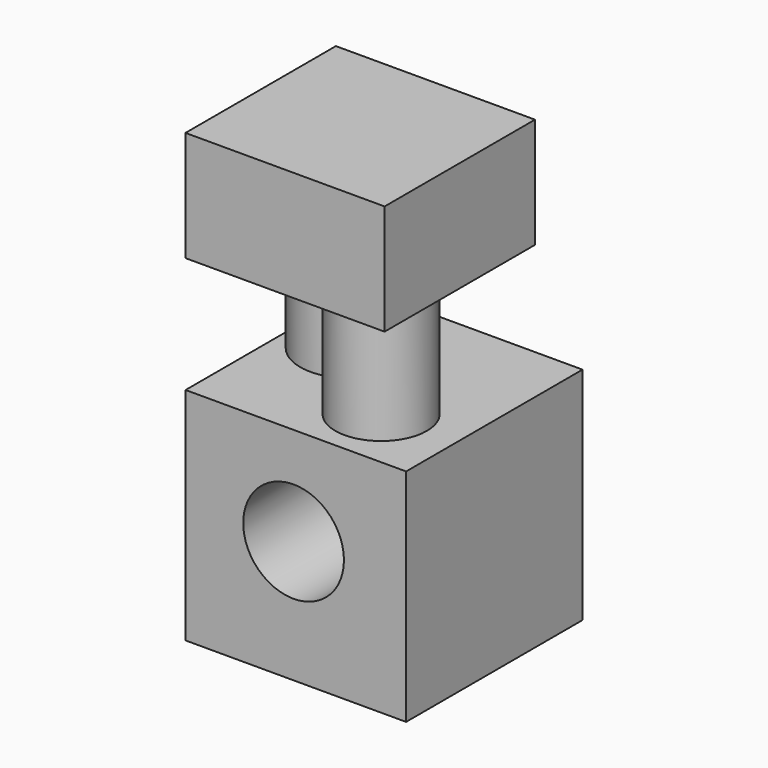
from build123d import *

# Parameters (mm, degrees)
F0_W     = 50
F0_H     = 50
F1_DEPTH = 50
F2_R     = 11.6571142063
F3_DEPTH = 25
F4_R     = 10.382921487
F5_DEPTH = 25
F6_W     = 45.1483903453
F6_H     = 42.6243015099
F6_R     = 10.382921487
F7_DEPTH = 25
F8_R     = 11.4191364722
F9_DEPTH = 162


with BuildPart() as f1:
    # F0 (on Top) → F1 (new body)
    with BuildSketch(Plane.XY):
        with Locations((25, 25)):
            Rectangle(F0_W, F0_H)
    extrude(amount=F1_DEPTH)

    # F2 (on face) → F3 (join)
    with BuildSketch(Plane.XY.offset(50)):
        with Locations((12.9157425836, 30.8926273137)):
            Circle(F2_R)
    extrude(amount=F3_DEPTH)

    # F4 (on face) → F5 (join)
    with BuildSketch(Plane.XY.offset(50)):
        with Locations((32.7795855701, 14.4389113411)):
            Circle(F4_R)
    extrude(amount=F5_DEPTH)

    # F6 (on face) → F7 (join)
    with BuildSketch(Plane.XY.offset(75)):
        with Locations((20.978460554, 23.2780914521)):
            Rectangle(F6_W, F6_H)
        with Locations((32.7795855701, 14.4389113411)):
            Circle(F6_R, mode=Mode.SUBTRACT)
        with Locations((32.7795855701, 14.4389113411)):
            Circle(F6_R)
    extrude(amount=F7_DEPTH)

    # F8 (on face) → F9 (cut)
    with BuildSketch(Plane.XZ):
        with Locations((24.4850087911, 27.6993848383)):
            Circle(F8_R)
    extrude(amount=-F9_DEPTH, mode=Mode.SUBTRACT)


solid = f1.part
